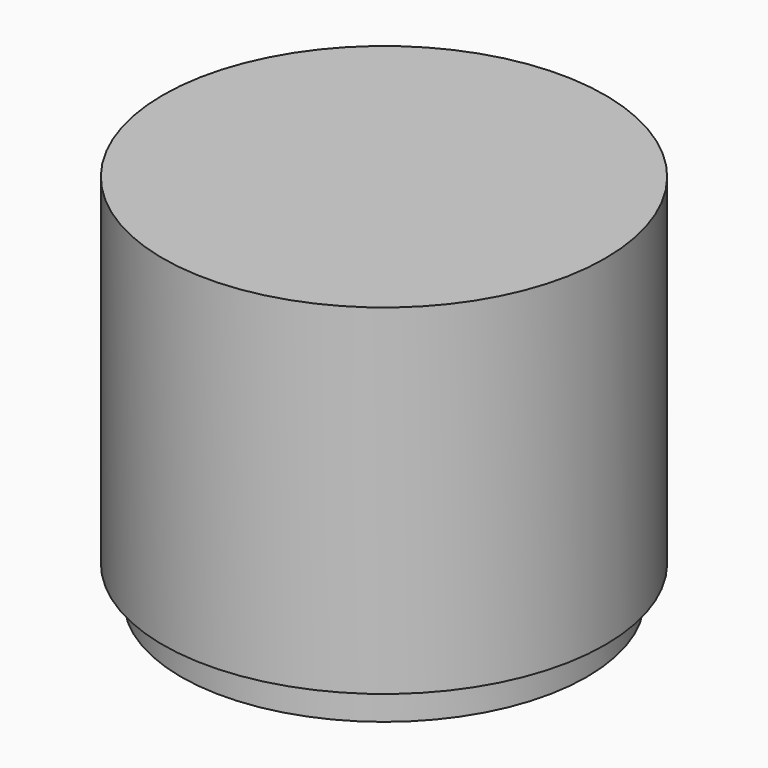
from build123d import *

# Parameters (mm, degrees)
CYLINDER001_R     = 19.5
CYLINDER001_DEPTH = 30
CYLINDER_R        = 10.3
CYLINDER_DEPTH    = 3
CYLINDER003_R     = 17.9
CYLINDER003_DEPTH = 3


with BuildPart() as cylinder001:
    # Cylinder001 → Cylinder001 (new body)
    with BuildSketch(Plane.XY.offset(60)):
        Circle(CYLINDER001_R)
    extrude(amount=CYLINDER001_DEPTH)


with BuildPart() as fusion:
    # Cylinder → Cylinder (new body)
    with BuildSketch(Plane.XY.offset(57)):
        Circle(CYLINDER_R)
    extrude(amount=CYLINDER_DEPTH)

    # Fusion: union Cylinder001
    add(cylinder001.part)


with BuildPart() as obj1:
    # Cylinder003 → Cylinder003 (new body)
    with BuildSketch(Plane.XY.offset(57)):
        Circle(CYLINDER003_R)
    extrude(amount=CYLINDER003_DEPTH)

    # Fusion001: union Fusion
    add(fusion.part)


solid = obj1.part
